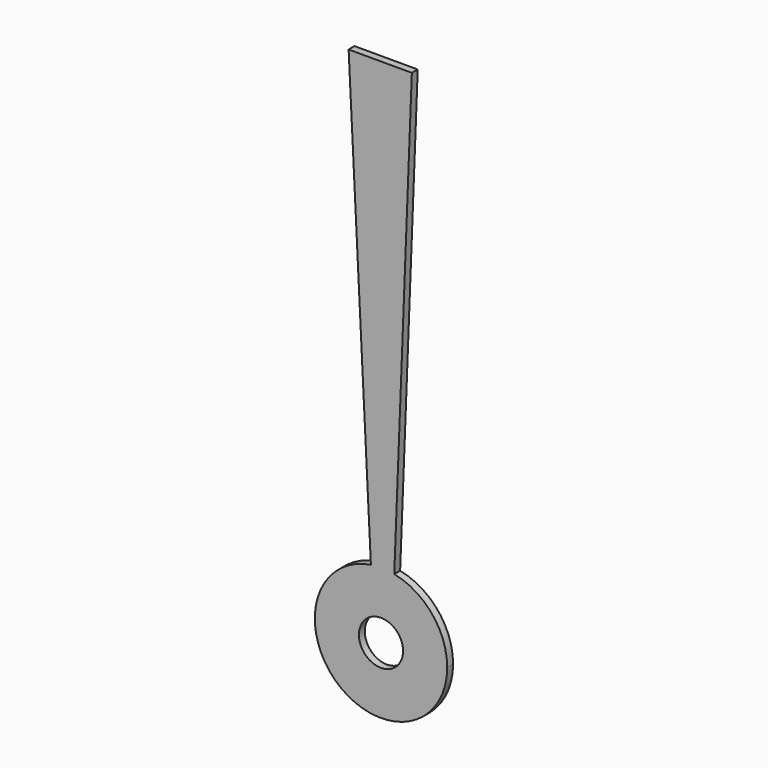
from build123d import *

# Parameters (mm, degrees)
F0_R     = 3
F1_DEPTH = 1


with BuildPart() as f1:
    # F0 (on Front) → F1 (new body)
    with BuildSketch(Plane.XZ):
        with BuildLine():
            ThreePointArc((-1.372303, 8.894762), (-5.858723, -6.831937), (9, 0))
            ThreePointArc((9, 0), (6.972371, 5.690874), (1.8031, 8.81753))
            ThreePointArc((1.8031, 8.81753), (0.218833, 8.997339), (-1.372303, 8.894762))
        make_face()
        Circle(F0_R, mode=Mode.SUBTRACT)
        with BuildLine():
            ThreePointArc((-1.372303, 8.894762), (0.218833, 8.997339), (1.8031, 8.81753))
            Line((1.8031, 8.81753), (4.193641, 69.579166))
            Line((4.193641, 69.579166), (-4.402259, 69.579166))
            Line((-4.402259, 69.579166), (-1.372303, 8.894762))
        make_face()
    extrude(amount=F1_DEPTH)


solid = f1.part
